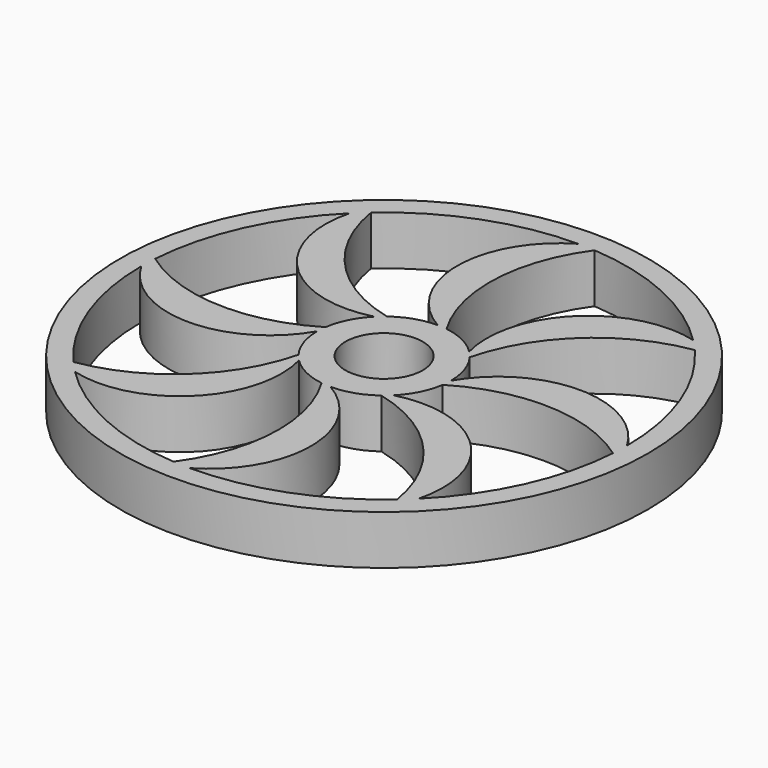
from build123d import *

# Parameters (mm, degrees)
F0_R     = 37.5
F0_R_2   = 5.5
F1_DEPTH = 7


with BuildPart() as f1:
    # F0 (on Top) → F1 (new body)
    with BuildSketch(Plane.XY):
        Circle(F0_R)
        with BuildLine():
            ThreePointArc((-2.377026, -34.418015), (-14.293428, -31.399808), (-24.395184, -24.395184))
            ThreePointArc((-24.395184, -24.395184), (-10.462875, -20.649823), (-6.717514, -6.717514))
            ThreePointArc((-6.717514, -6.717514), (-4.251838, -8.495403), (-1.350829, -9.403471))
            ThreePointArc((-1.350829, -9.403471), (1.909461, -22.065542), (-2.377026, -34.418015))
        make_face(mode=Mode.SUBTRACT)
        with BuildLine():
            ThreePointArc((-26.018023, -22.656401), (-32.309997, -12.096037), (-34.5, 0))
            ThreePointArc((-34.5, 0), (-22, -7.20326), (-9.5, 0))
            ThreePointArc((-9.5, 0), (-9.013661, -3.000653), (-7.604438, -5.694078))
            ThreePointArc((-7.604438, -5.694078), (-14.252502, -16.952887), (-26.018023, -22.656401))
        make_face(mode=Mode.SUBTRACT)
        with BuildLine():
            ThreePointArc((22.656401, -26.018023), (12.096037, -32.309997), (0, -34.5))
            ThreePointArc((0, -34.5), (7.20326, -22), (0, -9.5))
            ThreePointArc((0, -9.5), (3.000653, -9.013661), (5.694078, -7.604438))
            ThreePointArc((5.694078, -7.604438), (16.952887, -14.252502), (22.656401, -26.018023))
        make_face(mode=Mode.SUBTRACT)
        with BuildLine():
            ThreePointArc((9.403471, -1.350829), (22.065542, 1.909461), (34.418015, -2.377026))
            ThreePointArc((34.418015, -2.377026), (31.399808, -14.293428), (24.395184, -24.395184))
            ThreePointArc((24.395184, -24.395184), (20.649823, -10.462875), (6.717514, -6.717514))
            ThreePointArc((6.717514, -6.717514), (8.495403, -4.251838), (9.403471, -1.350829))
        make_face(mode=Mode.SUBTRACT)
        with BuildLine():
            ThreePointArc((-34.418015, 2.377026), (-31.399808, 14.293428), (-24.395184, 24.395184))
            ThreePointArc((-24.395184, 24.395184), (-20.649823, 10.462875), (-6.717514, 6.717514))
            ThreePointArc((-6.717514, 6.717514), (-8.495403, 4.251838), (-9.403471, 1.350829))
            ThreePointArc((-9.403471, 1.350829), (-22.065542, -1.909461), (-34.418015, 2.377026))
        make_face(mode=Mode.SUBTRACT)
        with BuildLine():
            ThreePointArc((-22.656401, 26.018023), (-12.096037, 32.309997), (0, 34.5))
            ThreePointArc((0, 34.5), (-7.20326, 22), (0, 9.5))
            ThreePointArc((0, 9.5), (-3.000653, 9.013661), (-5.694078, 7.604438))
            ThreePointArc((-5.694078, 7.604438), (-16.952887, 14.252502), (-22.656401, 26.018023))
        make_face(mode=Mode.SUBTRACT)
        Circle(F0_R_2, mode=Mode.SUBTRACT)
        with BuildLine():
            ThreePointArc((26.018023, 22.656401), (32.309997, 12.096037), (34.5, 0))
            ThreePointArc((34.5, 0), (22, 7.20326), (9.5, 0))
            ThreePointArc((9.5, 0), (9.013661, 3.000653), (7.604438, 5.694078))
            ThreePointArc((7.604438, 5.694078), (14.252502, 16.952887), (26.018023, 22.656401))
        make_face(mode=Mode.SUBTRACT)
        with BuildLine():
            ThreePointArc((2.377026, 34.418015), (14.293428, 31.399808), (24.395184, 24.395184))
            ThreePointArc((24.395184, 24.395184), (10.462875, 20.649823), (6.717514, 6.717514))
            ThreePointArc((6.717514, 6.717514), (4.251838, 8.495403), (1.350829, 9.403471))
            ThreePointArc((1.350829, 9.403471), (-1.909461, 22.065542), (2.377026, 34.418015))
        make_face(mode=Mode.SUBTRACT)
    extrude(amount=F1_DEPTH)


solid = f1.part
